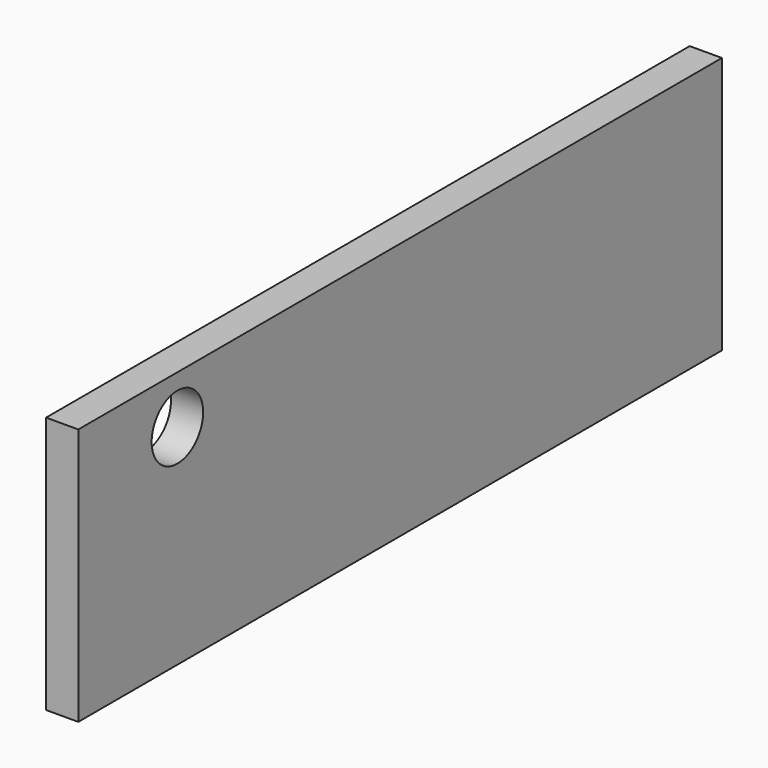
from build123d import *

# Parameters (mm, degrees)
F0_W     = 10
F0_H     = 80
F1_DEPTH = 250
F2_R     = 10
F3_DEPTH = 10.001


with BuildPart() as f1:
    # F0 (on Front) → F1 (new body)
    with BuildSketch(Plane.XZ):
        Rectangle(F0_W, F0_H)
    extrude(amount=-F1_DEPTH)

    # F2 (on face) → F3 (cut, through all)
    with BuildSketch(Plane.YZ.offset(5)):
        with Locations((38.5, 25)):
            Circle(F2_R)
    extrude(amount=-F3_DEPTH, mode=Mode.SUBTRACT)


solid = f1.part
